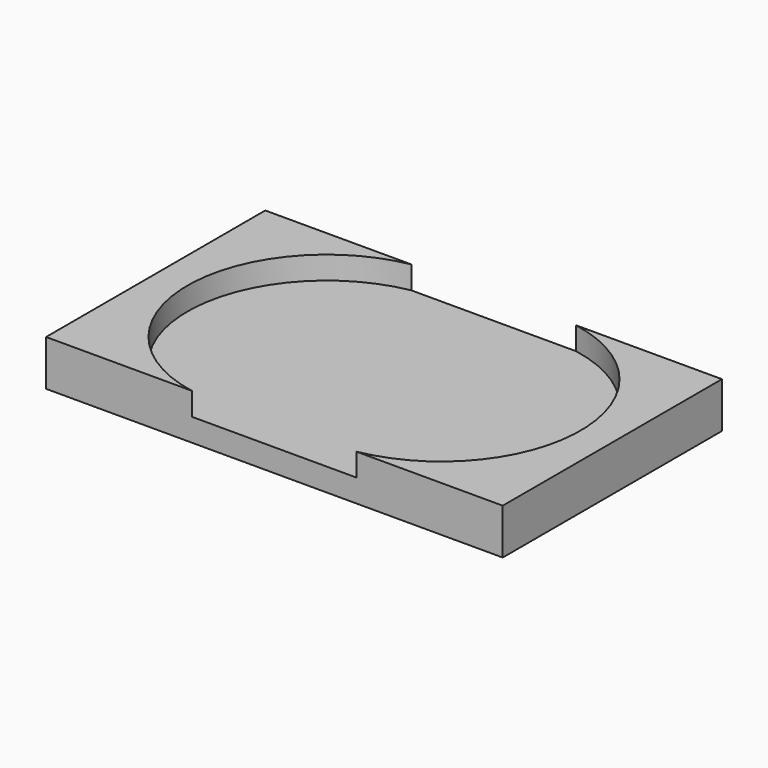
from build123d import *

# Parameters (mm, degrees)
F0_W     = 254
F0_H     = 152.4
F1_DEPTH = 25.4
F3_DEPTH = 12.7


with BuildPart() as f1:
    # F0 (on Top) → F1 (new body)
    with BuildSketch(Plane.XY):
        with Locations((9.557806, 14.917426)):
            Rectangle(F0_W, F0_H)
    extrude(amount=F1_DEPTH)

    # F2 (on face) → F3 (cut)
    with BuildSketch(Plane.XY.offset(25.4)):
        with BuildLine():
            Line((55.348307, 91.117426), (9.557806, 91.117426))
            Line((9.557806, 91.117426), (9.557806, 14.917426))
            Line((9.557806, 14.917426), (55.348307, -61.282574))
            ThreePointArc((55.348307, -61.282574), (118.848307, 14.917426), (55.348307, 91.117426))
        make_face()
        Polygon((55.348307, -61.282574), (9.557806, 14.917426), (-36.232695, -61.282574), align=None)
        with BuildLine():
            Line((9.557806, 14.917426), (9.557806, 91.117426))
            Line((9.557806, 91.117426), (-36.232695, 91.117426))
            ThreePointArc((-36.232695, 91.117426), (-99.732695, 14.917426), (-36.232695, -61.282574))
            Line((-36.232695, -61.282574), (9.557806, 14.917426))
        make_face()
    extrude(amount=-F3_DEPTH, mode=Mode.SUBTRACT)


solid = f1.part
